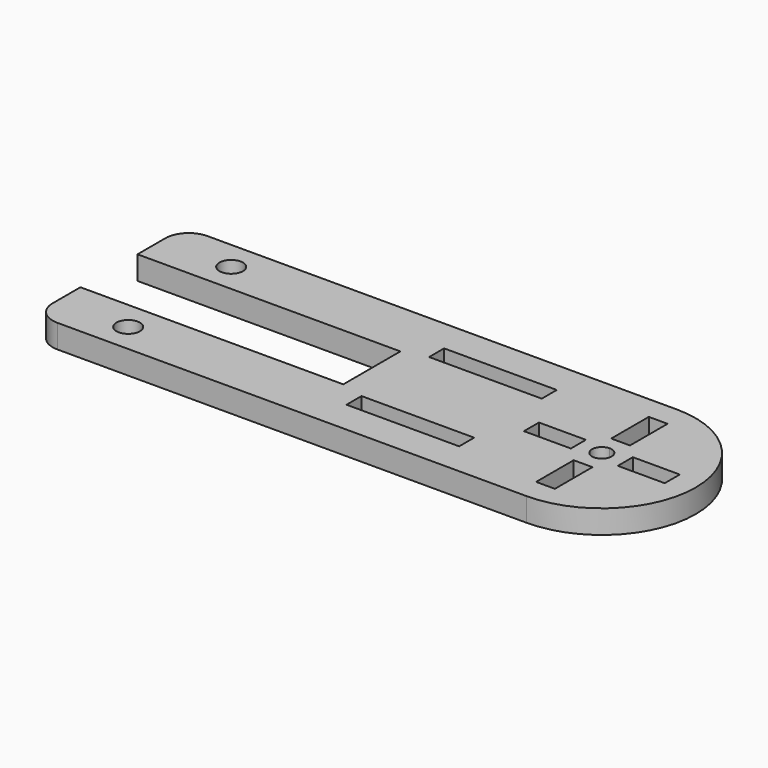
from build123d import *

# Parameters (mm, degrees)
F0_R        = 3.175
F0_W        = 30.48
F0_H        = 5.08
F0_W_2      = 12.7
F0_W_3      = 71.12
F0_H_2      = 19.304
F1_DEPTH    = 6.35
F1_FACE_W   = 5.08
F1_FACE_H   = 12.7
F1_FACE_R   = 2.6543
F1_FACE_R_2 = 3.175
F1_FACE_W_2 = 30.48
F1_FACE_H_2 = 5.08
F1_FACE_W_3 = 12.7
F2_DEPTH    = 6.35
F3_DEPTH    = 93.98


with BuildPart() as f1:
    # F0 (on Top) → F1 (new body)
    with BuildSketch(Plane.XY):
        with BuildLine():
            Line((66.675, 19.05), (66.675, 25.4))
            Line((66.675, 25.4), (-60.325, 25.4))
            ThreePointArc((-60.325, 25.4), (-64.815128, 23.540128), (-66.675, 19.05))
            Line((-66.675, 19.05), (-66.675, 9.652))
            Line((-66.675, 9.652), (4.445, 9.652))
            Line((4.445, 9.652), (4.445, -9.652))
            Line((4.445, -9.652), (-66.675, -9.652))
            Line((-66.675, -9.652), (-66.675, -19.05))
            ThreePointArc((-66.675, -19.05), (-64.815128, -23.540128), (-60.325, -25.4))
            Line((-60.325, -25.4), (66.675, -25.4))
            Line((66.675, -25.4), (66.675, -19.05))
            Line((66.675, -19.05), (64.135, -19.05))
            Line((64.135, -19.05), (64.135, -6.35))
            Line((64.135, -6.35), (66.675, -6.35))
            Line((66.675, -6.35), (66.675, -2.6543))
            ThreePointArc((66.675, -2.6543), (64.0207, 0), (66.675, 2.6543))
            Line((66.675, 2.6543), (66.675, 6.35))
            Line((66.675, 6.35), (64.135, 6.35))
            Line((64.135, 6.35), (64.135, 19.05))
            Line((64.135, 19.05), (66.675, 19.05))
        make_face()
        with Locations((-47.448933, -17.526)):
            Circle(F0_R, mode=Mode.SUBTRACT)
        with Locations((26.035, -13.97)):
            Rectangle(F0_W, F0_H, mode=Mode.SUBTRACT)
        with Locations((53.975, 0)):
            Rectangle(F0_W_2, F0_H, mode=Mode.SUBTRACT)
        with Locations((-47.625, 17.526)):
            Circle(F0_R, mode=Mode.SUBTRACT)
        with Locations((26.035, 13.97)):
            Rectangle(F0_W, F0_H, mode=Mode.SUBTRACT)
        with BuildLine():
            ThreePointArc((66.675, -25.4), (92.075, 0), (66.675, 25.4))
            Line((66.675, 25.4), (66.675, 19.05))
            Line((66.675, 19.05), (69.215, 19.05))
            Line((69.215, 19.05), (69.215, 6.35))
            Line((69.215, 6.35), (66.675, 6.35))
            Line((66.675, 6.35), (66.675, 2.6543))
            ThreePointArc((66.675, 2.6543), (68.551874, 1.876874), (69.3293, 0))
            ThreePointArc((69.3293, 0), (68.551874, -1.876874), (66.675, -2.6543))
            Line((66.675, -2.6543), (66.675, -6.35))
            Line((66.675, -6.35), (69.215, -6.35))
            Line((69.215, -6.35), (69.215, -19.05))
            Line((69.215, -19.05), (66.675, -19.05))
            Line((66.675, -19.05), (66.675, -25.4))
        make_face()
        with Locations((79.375, 0)):
            Rectangle(F0_W_2, F0_H, mode=Mode.SUBTRACT)
        with Locations((-31.115, 0)):
            Rectangle(F0_W_3, F0_H_2)
    extrude(amount=F1_DEPTH)

    # F1_face (on face) → F2 (join)
    with BuildSketch(Plane(origin=(7.852921, 0, 6.35), x_dir=(1, 0, 0), z_dir=(0, 0, 1))):
        with BuildLine():
            Line((58.822079, 25.4), (-68.177921, 25.4))
            ThreePointArc((-68.177921, 25.4), (-72.668049, 23.540128), (-74.527921, 19.05))
            Line((-74.527921, 19.05), (-74.527921, -19.05))
            ThreePointArc((-74.527921, -19.05), (-72.668049, -23.540128), (-68.177921, -25.4))
            Line((-68.177921, -25.4), (58.822079, -25.4))
            ThreePointArc((58.822079, -25.4), (84.222079, 0), (58.822079, 25.4))
        make_face()
        with Locations((58.822079, 12.7)):
            Rectangle(F1_FACE_W, F1_FACE_H, mode=Mode.SUBTRACT)
        with Locations((58.822079, -12.7)):
            Rectangle(F1_FACE_W, F1_FACE_H, mode=Mode.SUBTRACT)
        with Locations((58.822079, 0)):
            Circle(F1_FACE_R, mode=Mode.SUBTRACT)
        with Locations((-55.301854, -17.526)):
            Circle(F1_FACE_R_2, mode=Mode.SUBTRACT)
        with Locations((18.182079, -13.97)):
            Rectangle(F1_FACE_W_2, F1_FACE_H_2, mode=Mode.SUBTRACT)
        with Locations((46.122079, 0)):
            Rectangle(F1_FACE_W_3, F1_FACE_H_2, mode=Mode.SUBTRACT)
        with Locations((-55.477921, 17.526)):
            Circle(F1_FACE_R_2, mode=Mode.SUBTRACT)
        with Locations((18.182079, 13.97)):
            Rectangle(F1_FACE_W_2, F1_FACE_H_2, mode=Mode.SUBTRACT)
        with Locations((71.522079, 0)):
            Rectangle(F1_FACE_W_3, F1_FACE_H_2, mode=Mode.SUBTRACT)
    extrude(amount=-F2_DEPTH)

    # F0 (on Top) → F3 (cut)
    with BuildSketch(Plane.XY):
        with Locations((-31.115, 0)):
            Rectangle(F0_W_3, F0_H_2)
    extrude(amount=F3_DEPTH, mode=Mode.SUBTRACT)


solid = f1.part
